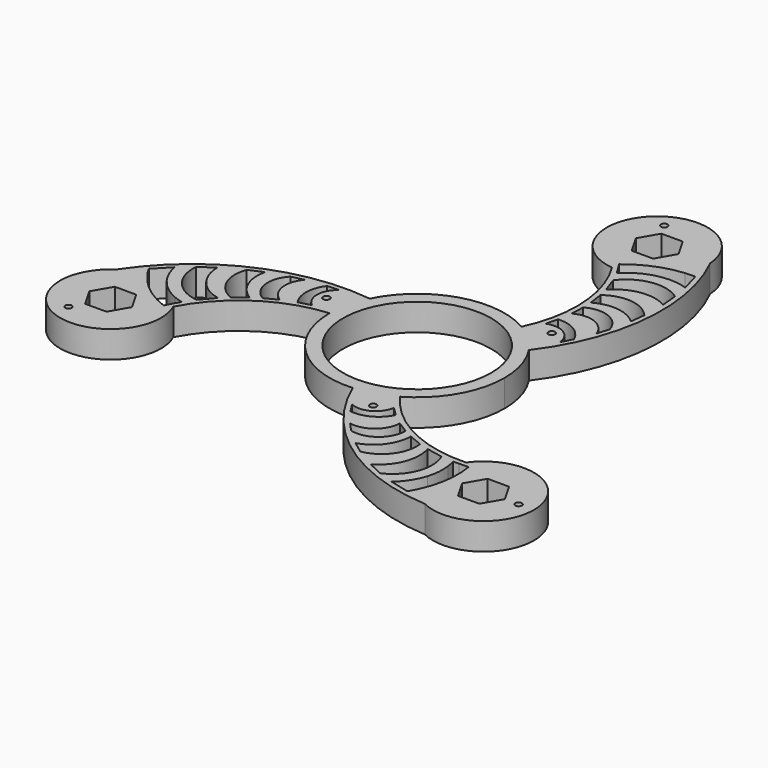
from build123d import *

# Parameters (mm, degrees)
F0_R     = 279.4
F1_DEPTH = 101.6
F2_R     = 12.7
F2_R_2   = 12.5
F3_DEPTH = 50.8


with BuildPart() as f1:
    # F0 (on Top) → F1 (new body)
    with BuildSketch(Plane.XY):
        with BuildLine():
            ThreePointArc((165.1, -285.961588), (285.961588, -165.1), (330.2, 0))
            ThreePointArc((330.2, 0), (316.035905, 95.673125), (274.758772, 183.138356))
            ThreePointArc((274.758772, 183.138356), (225.85856, 240.873309), (165.1, 285.961588))
            ThreePointArc((165.1, 285.961588), (-95.673125, 316.035905), (-295.981854, 146.378898))
            ThreePointArc((-295.981854, 146.378898), (-321.531685, 75.162596), (-330.2, 0))
            ThreePointArc((-330.2, 0), (-225.85856, -240.873309), (21.223083, -329.517254))
            ThreePointArc((21.223083, -329.517254), (95.673125, -316.035905), (165.1, -285.961588))
        make_face()
        Circle(F0_R, mode=Mode.SUBTRACT)
        with BuildLine():
            ThreePointArc((165.1, 285.961588), (225.85856, 240.873309), (274.758772, 183.138356))
            ThreePointArc((274.758772, 183.138356), (419.955029, 555.806639), (346.296428, 948.919871))
            ThreePointArc((346.296428, 948.919871), (343.096456, 900.151785), (327.593656, 853.80279))
            ThreePointArc((327.593656, 853.80279), (346.365994, 854.936106), (365.172292, 855.026849))
            Line((365.172292, 855.026849), (386.159106, 781.773906))
            ThreePointArc((386.159106, 781.773906), (330.519346, 792.374089), (274.106758, 787.298))
            ThreePointArc((274.106758, 787.298), (233.337853, 773.127606), (196.453349, 750.712498))
            ThreePointArc((196.453349, 750.712498), (183.140497, 739.629863), (170.813812, 727.459832))
            Line((170.813812, 727.459832), (159.193876, 746.42974))
            ThreePointArc((159.193876, 746.42974), (148.199724, 746.572871), (137.232142, 747.350049))
            ThreePointArc((137.232142, 747.350049), (210.182068, 520.220384), (165.1, 285.961588))
        make_face()
        with BuildLine():
            ThreePointArc((219.740654, 389.881855), (289.102738, 373.429577), (335.428058, 319.247098))
            Line((335.428058, 319.247098), (315.070275, 279.674231))
            ThreePointArc((315.070275, 279.674231), (278.207397, 339.338206), (208.315586, 345.151683))
            Line((208.315586, 345.151683), (219.740654, 389.881855))
        make_face(mode=Mode.SUBTRACT)
        with BuildLine():
            ThreePointArc((230.090316, 495.358171), (318.97663, 501.347432), (378.566059, 435.122451))
            Line((378.566059, 435.122451), (364.622182, 390.380044))
            ThreePointArc((364.622182, 390.380044), (308.575729, 448.660988), (227.861751, 443.851925))
            Line((227.861751, 443.851925), (230.090316, 495.358171))
        make_face(mode=Mode.SUBTRACT)
        with BuildLine():
            ThreePointArc((220.506904, 588.747772), (315.233937, 615.350933), (401.950913, 568.863247))
            Line((401.950913, 568.863247), (395.450001, 513.362684))
            ThreePointArc((395.450001, 513.362684), (315.191991, 550.934084), (228.323604, 533.417188))
            Line((228.323604, 533.417188), (220.506904, 588.747772))
        make_face(mode=Mode.SUBTRACT)
        with BuildLine():
            ThreePointArc((190.731506, 685.758289), (287.267753, 744.917108), (397.553807, 719.304627))
            Line((397.553807, 719.304627), (403.311044, 656.066156))
            ThreePointArc((403.311044, 656.066156), (302.181037, 674.537443), (211.661495, 625.806762))
            Line((211.661495, 625.806762), (190.731506, 685.758289))
        make_face(mode=Mode.SUBTRACT)
        with BuildLine():
            ThreePointArc((578.608057, -492.521545), (345.433034, -442.133203), (165.1, -285.961588))
            ThreePointArc((165.1, -285.961588), (95.673125, -316.035905), (21.223083, -329.517254))
            ThreePointArc((21.223083, -329.517254), (271.365154, -641.595043), (648.6405, -774.36144))
            ThreePointArc((648.6405, -774.36144), (608.006084, -747.206139), (575.618078, -710.605824))
            ThreePointArc((575.618078, -710.605824), (567.21339, -727.429803), (557.888826, -743.761906))
            Line((557.888826, -743.761906), (483.95651, -725.310549))
            ThreePointArc((483.95651, -725.310549), (520.956418, -682.425195), (544.76669, -631.032416))
            ThreePointArc((544.76669, -631.032416), (552.879221, -588.640311), (551.90942, -545.489839))
            ThreePointArc((551.90942, -545.489839), (548.968002, -528.419254), (544.591788, -511.659017))
            Line((544.591788, -511.659017), (566.830179, -511.080811))
            ThreePointArc((566.830179, -511.080811), (572.45121, -501.631161), (578.608057, -492.521545))
        make_face()
        with BuildLine():
            ThreePointArc((227.777264, -385.241916), (178.848131, -437.085104), (108.762068, -450.112768))
            Line((108.762068, -450.112768), (84.669851, -412.695977))
            ThreePointArc((84.669851, -412.695977), (154.771808, -410.603776), (194.752332, -352.982431))
            Line((194.752332, -352.982431), (227.777264, -385.241916))
        make_face(mode=Mode.SUBTRACT)
        with BuildLine():
            ThreePointArc((313.947602, -446.943144), (274.691297, -526.915581), (187.544067, -545.40905))
            Line((187.544067, -545.40905), (155.767944, -510.962094))
            ThreePointArc((155.767944, -510.962094), (234.263949, -491.564914), (270.456167, -419.260027))
            Line((270.456167, -419.260027), (313.947602, -446.943144))
        make_face(mode=Mode.SUBTRACT)
        with BuildLine():
            ThreePointArc((399.617075, -485.338467), (375.292572, -580.676064), (291.674567, -632.531325))
            Line((291.674567, -632.531325), (246.860125, -599.151088))
            ThreePointArc((246.860125, -599.151088), (319.526917, -548.431313), (347.791033, -464.442635))
            Line((347.791033, -464.442635), (399.617075, -485.338467))
        make_face(mode=Mode.SUBTRACT)
        with BuildLine():
            ThreePointArc((498.518346, -508.057474), (501.483263, -621.239726), (424.159177, -703.94401))
            Line((424.159177, -703.94401), (366.514436, -677.310688))
            ThreePointArc((366.514436, -677.310688), (433.076043, -598.965176), (436.133807, -496.207613))
            Line((436.133807, -496.207613), (498.518346, -508.057474))
        make_face(mode=Mode.SUBTRACT)
        with BuildLine():
            ThreePointArc((327.593656, 853.80279), (343.096456, 900.151785), (346.296428, 948.919871))
            ThreePointArc((346.296428, 948.919871), (23.952295, 1074.045306), (137.232142, 747.350049))
            ThreePointArc((137.232142, 747.350049), (148.199724, 746.572871), (159.193876, 746.42974))
            Line((159.193876, 746.42974), (140.616896, 776.757238))
            ThreePointArc((140.616896, 776.757238), (228.227479, 829.544451), (327.593656, 853.80279))
        make_face()
        Polygon((75.530644, 936.905829), (115.853144, 1006.746447), (196.498144, 1006.746447), (236.820644, 936.905829), (196.498144, 867.06521), (115.853144, 867.06521), align=None, mode=Mode.SUBTRACT)
        with BuildLine():
            ThreePointArc((648.6405, -774.36144), (918.174372, -557.765949), (578.608057, -492.521545))
            ThreePointArc((578.608057, -492.521545), (572.45121, -501.631161), (566.830179, -511.080811))
            Line((566.830179, -511.080811), (602.383053, -510.156423))
            ThreePointArc((602.383053, -510.156423), (604.292829, -612.42302), (575.618078, -710.605824))
            ThreePointArc((575.618078, -710.605824), (608.006084, -747.206139), (648.6405, -774.36144))
        make_face()
        Polygon((773.618927, -533.864371), (813.941427, -603.704989), (773.618927, -673.545608), (692.973927, -673.545608), (652.651427, -603.704989), (692.973927, -533.864371), align=None, mode=Mode.SUBTRACT)
        with BuildLine():
            ThreePointArc((-330.2, 0), (-321.531685, 75.162596), (-295.981854, 146.378898))
            ThreePointArc((-295.981854, 146.378898), (-691.320184, 85.788404), (-994.936929, -174.558431))
            ThreePointArc((-994.936929, -174.558431), (-951.102541, -152.945645), (-903.211734, -143.196967))
            ThreePointArc((-903.211734, -143.196967), (-913.579384, -127.506303), (-923.061118, -111.264943))
            Line((-923.061118, -111.264943), (-870.115616, -56.463358))
            ThreePointArc((-870.115616, -56.463358), (-851.475764, -109.948895), (-818.873448, -156.265585))
            ThreePointArc((-818.873448, -156.265585), (-786.217073, -184.487295), (-748.362768, -205.222658))
            ThreePointArc((-748.362768, -205.222658), (-732.108499, -211.210609), (-715.405601, -215.800815))
            Line((-715.405601, -215.800815), (-726.024055, -235.34893))
            ThreePointArc((-726.024055, -235.34893), (-720.650934, -244.94171), (-715.840199, -254.828503))
            ThreePointArc((-715.840199, -254.828503), (-555.615102, -78.087181), (-330.2, 0))
        make_face()
        with BuildLine():
            ThreePointArc((-689.249852, -177.700815), (-788.751016, -123.677382), (-821.712984, -15.360618))
            Line((-821.712984, -15.360618), (-769.82548, 21.244532))
            ThreePointArc((-769.82548, 21.244532), (-735.25708, -75.572267), (-647.795302, -129.59915))
            Line((-647.795302, -129.59915), (-689.249852, -177.700815))
        make_face(mode=Mode.SUBTRACT)
        with BuildLine():
            Line((-576.114637, -68.974553), (-620.12398, -103.409305))
            ThreePointArc((-620.12398, -103.409305), (-690.526509, -34.674869), (-693.62548, 63.668078))
            Line((-693.62548, 63.668078), (-642.310126, 85.788404))
            ThreePointArc((-642.310126, 85.788404), (-634.718908, -2.502771), (-576.114637, -68.974553))
        make_face(mode=Mode.SUBTRACT)
        with BuildLine():
            Line((-498.317918, -24.591898), (-544.037918, -48.415027))
            ThreePointArc((-544.037918, -48.415027), (-593.667927, 25.568149), (-566.110126, 110.286599))
            Line((-566.110126, 110.286599), (-520.390126, 120.582051))
            ThreePointArc((-520.390126, 120.582051), (-542.839678, 42.903926), (-498.317918, -24.591898))
        make_face(mode=Mode.SUBTRACT)
        with BuildLine():
            ThreePointArc((-447.517918, -4.639939), (-467.950869, 63.655527), (-444.190126, 130.86567))
            Line((-444.190126, 130.86567), (-399.740126, 133.021747))
            ThreePointArc((-399.740126, 133.021747), (-432.979205, 71.26557), (-403.067918, 7.830748))
            Line((-403.067918, 7.830748), (-447.517918, -4.639939))
        make_face(mode=Mode.SUBTRACT)
        with BuildLine():
            ThreePointArc((-903.211734, -143.196967), (-951.102541, -152.945645), (-994.936929, -174.558431))
            ThreePointArc((-994.936929, -174.558431), (-942.126667, -516.279357), (-715.840199, -254.828503))
            ThreePointArc((-715.840199, -254.828503), (-720.650934, -244.94171), (-726.024055, -235.34893))
            Line((-726.024055, -235.34893), (-742.999948, -266.600815))
            ThreePointArc((-742.999948, -266.600815), (-832.520308, -217.121431), (-903.211734, -143.196967))
        make_face()
        Polygon((-849.14957, -263.360221), (-808.82707, -333.200839), (-849.14957, -403.041458), (-929.79457, -403.041458), (-970.11707, -333.200839), (-929.79457, -263.360221), align=None, mode=Mode.SUBTRACT)
    extrude(amount=F1_DEPTH)

    # F2 (on face) → F3 (cut)
    with BuildSketch(Plane.XY.offset(101.6)):
        with Locations((138.178983, -380.014748)):
            Circle(F2_R)
        with Locations((260.012934, 309.673884)):
            Circle(F2_R)
        with Locations((-398.191917, 70.340864)):
            Circle(F2_R)
        with Locations((866.295139, -604.290373)):
            Circle(F2_R_2)
        with Locations((90.183245, 1052.378784)):
            Circle(F2_R_2)
        with Locations((-956.478384, -448.088411)):
            Circle(F2_R_2)
    extrude(amount=-F3_DEPTH, mode=Mode.SUBTRACT)


solid = f1.part
